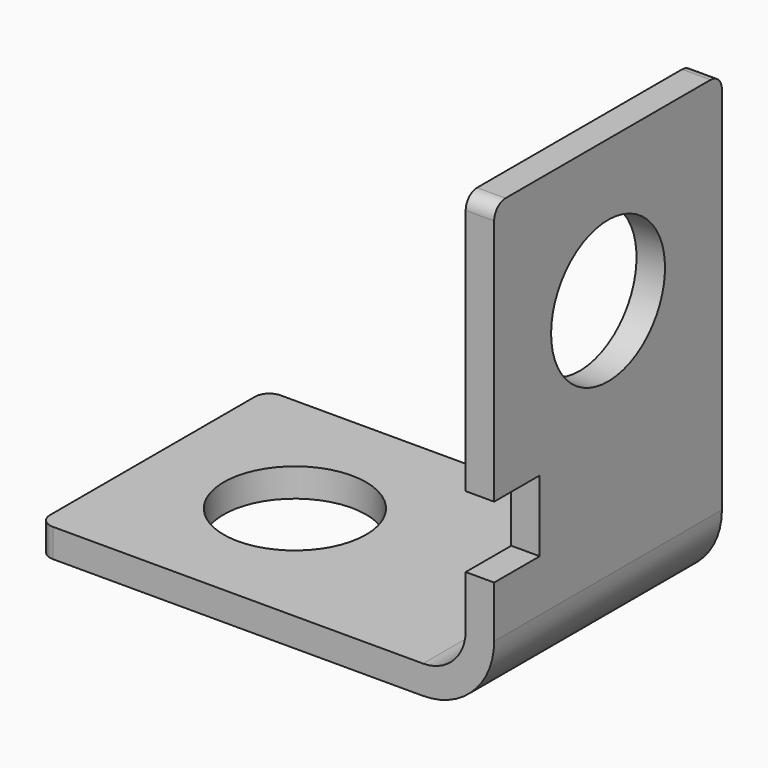
from build123d import *

# Parameters (mm, degrees)
F1_DEPTH = 10
F2_R     = 5
F3_DEPTH = 2
F4_W     = 4
F4_H     = 5
F5_DEPTH = 2
F6_R     = 5
F7_DEPTH = 2
F8_R     = 1


with BuildPart() as f1:
    # F0 (on Front) → F1 (new body, symmetric)
    with BuildSketch(Plane.XZ):
        with BuildLine():
            Line((27, 0), (0, 0))
            Line((0, 0), (0, -2))
            Line((0, -2), (27, -2))
            ThreePointArc((27, -2), (30.535534, -0.535534), (32, 3))
            Line((32, 3), (32, 30))
            Line((32, 30), (30, 30))
            Line((30, 30), (30, 3))
            ThreePointArc((30, 3), (29.12132, 0.87868), (27, 0))
        make_face()
    extrude(amount=F1_DEPTH, both=True)

    # F2 (on face) → F3 (cut, through all)
    with BuildSketch(Plane(origin=(30, 0, 0), x_dir=(0, -1, 0), z_dir=(-1, 0, 0))):
        with Locations((0, 20)):
            Circle(F2_R)
    extrude(amount=-F3_DEPTH, mode=Mode.SUBTRACT)

    # F4 (on face) → F5 (cut, through all)
    with BuildSketch(Plane(origin=(30, 0, 0), x_dir=(0, -1, 0), z_dir=(-1, 0, 0))):
        with Locations((8, 9.134532)):
            Rectangle(F4_W, F4_H)
    extrude(amount=-F5_DEPTH, mode=Mode.SUBTRACT)

    # F6 (on face) → F7 (cut, through all)
    with BuildSketch(Plane.XY):
        with Locations((10, 0)):
            Circle(F6_R)
    extrude(amount=-F7_DEPTH, mode=Mode.SUBTRACT)

    # F8
    f8_edges = [f1.edges().sort_by_distance(p)[0] for p in [
        (31, 10, 30),
        (31, -10, 30),
        (0, 10, -1),
        (0, -10, -1),
    ]]
    fillet(f8_edges, radius=F8_R)


solid = f1.part
